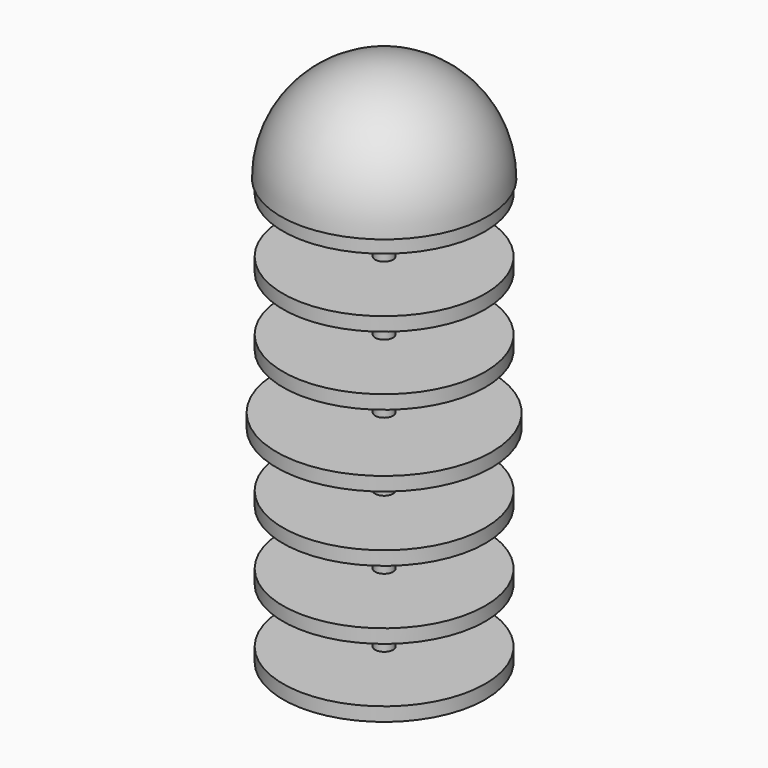
from build123d import *

# Parameters (mm, degrees)
F0_R      = 46.736
F1_DEPTH  = 6.35
F3_R      = 46.736
F4_DEPTH  = 6.35
F6_R      = 46.736
F7_DEPTH  = 6.35
F9_R      = 49.652937
F10_DEPTH = 6.35
F12_R     = 46.736
F13_DEPTH = 6.35
F15_R     = 46.736
F16_DEPTH = 6.35
F18_R     = 46.736
F19_DEPTH = 6.35
F22_R     = 4.148023
F23_DEPTH = 228.6


with BuildPart() as f1:
    # F0 (on Top) → F1 (new body)
    with BuildSketch(Plane.XY):
        Circle(F0_R)
    extrude(amount=F1_DEPTH)


with BuildPart() as f4:
    # F3 (on offset) → F4 (new body)
    with BuildSketch(Plane.XY.offset(31.75)):
        Circle(F3_R)
    extrude(amount=F4_DEPTH)


with BuildPart() as f7:
    # F6 (on offset) → F7 (new body)
    with BuildSketch(Plane.XY.offset(63.5)):
        Circle(F6_R)
    extrude(amount=F7_DEPTH)


with BuildPart() as f10:
    # F9 (on offset) → F10 (new body)
    with BuildSketch(Plane.XY.offset(95.25)):
        Circle(F9_R)
    extrude(amount=F10_DEPTH)


with BuildPart() as f13:
    # F12 (on offset) → F13 (new body)
    with BuildSketch(Plane.XY.offset(127)):
        Circle(F12_R)
    extrude(amount=F13_DEPTH)


with BuildPart() as f16:
    # F15 (on offset) → F16 (new body)
    with BuildSketch(Plane.XY.offset(158.75)):
        Circle(F15_R)
    extrude(amount=F16_DEPTH)


with BuildPart() as f19:
    # F18 (on offset) → F19 (new body)
    with BuildSketch(Plane.XY.offset(190.5)):
        Circle(F18_R)
    extrude(amount=F19_DEPTH)

    # F20 (on Right) → F21 (revolve)
    with BuildSketch(Plane.YZ):
        with BuildLine():
            Line((0, 196.85), (0, 244.602))
            ThreePointArc((0, 244.602), (-33.765763, 230.615763), (-47.752, 196.85))
            Line((-47.752, 196.85), (0, 196.85))
        make_face()
    revolve(axis=Axis((0, 0, 220.726), (0, 0, -1)))


with BuildPart() as f23:
    # F22 (on face) → F23 (new body)
    with BuildSketch(Plane(origin=(0, 0, 0), x_dir=(1, 0, 0), z_dir=(0, 0, -1))):
        Circle(F22_R)
    extrude(amount=-F23_DEPTH)


solid = Compound([f1.part, f4.part, f7.part, f10.part, f13.part, f16.part, f19.part, f23.part])
